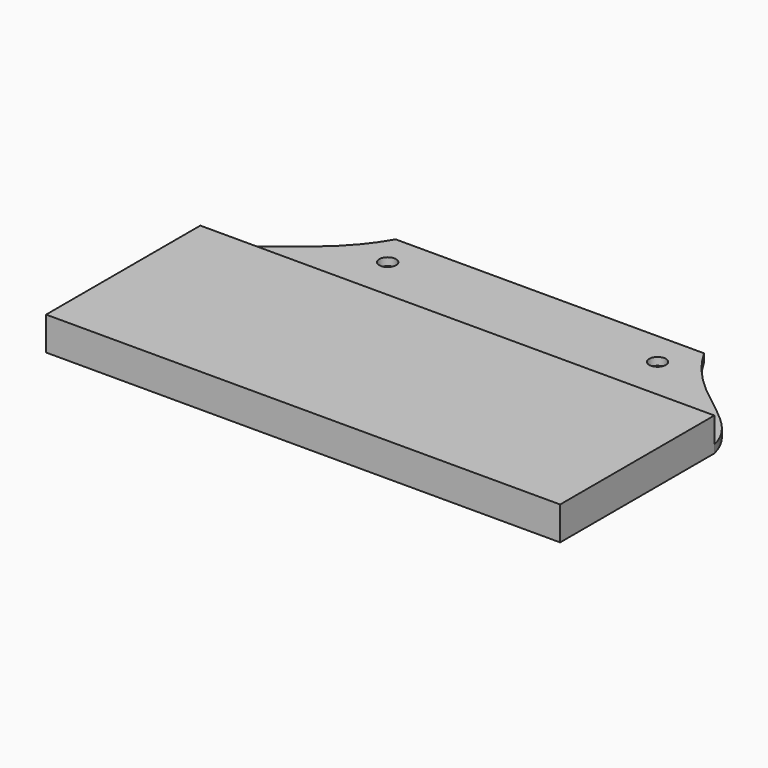
from build123d import *

# Parameters (mm, degrees)
F0_W     = 120
F0_H     = 45
F0_H_2   = 75
F0_W_2   = 40
F1_DEPTH = 3
F2_W     = 200
F2_H     = 75
F3_DEPTH = 10
F4_R     = 3.25
F5_DEPTH = 25


with BuildPart() as f1:
    # F0 (on Top) → F1 (new body)
    with BuildSketch(Plane.XY):
        Rectangle(F0_W, F0_H)
        with BuildLine():
            Line((-100, -22.5), (-60, -22.5))
            Line((-60, -22.5), (-60, 22.5))
            add(Edge.make_bspline(
                [(-100, -22.5), (-95.680383, -4.419341), (-73.623309, -1.538), (-60, 22.5)],
                knots=[0, 0, 0, 0, 60.207973, 60.207973, 60.207973, 60.207973], degree=3))
        make_face()
        with Locations((0, -60)):
            Rectangle(F0_W, F0_H_2)
        with Locations((-80, -60)):
            Rectangle(F0_W_2, F0_H_2)
        with Locations((80, -60)):
            Rectangle(F0_W_2, F0_H_2)
        with BuildLine():
            Line((60, 22.5), (60, -22.5))
            Line((60, -22.5), (100, -22.5))
            add(Edge.make_bspline(
                [(100, -22.5), (95.680383, -4.419341), (73.623309, -1.538), (60, 22.5)],
                knots=[0, 0, 0, 0, 60.207973, 60.207973, 60.207973, 60.207973], degree=3))
        make_face()
    extrude(amount=F1_DEPTH)

    # F2 (on face) → F3 (join)
    with BuildSketch(Plane.XY.offset(3)):
        with Locations((0, -60)):
            Rectangle(F2_W, F2_H)
    extrude(amount=F3_DEPTH)

    # F4 (on face) → F5 (cut)
    with BuildSketch(Plane.XY.offset(3)):
        with Locations((-52.5, 9.25)):
            Circle(F4_R)
        with Locations((52.5, 9.25)):
            Circle(F4_R)
    extrude(amount=-F5_DEPTH, mode=Mode.SUBTRACT)


solid = f1.part
